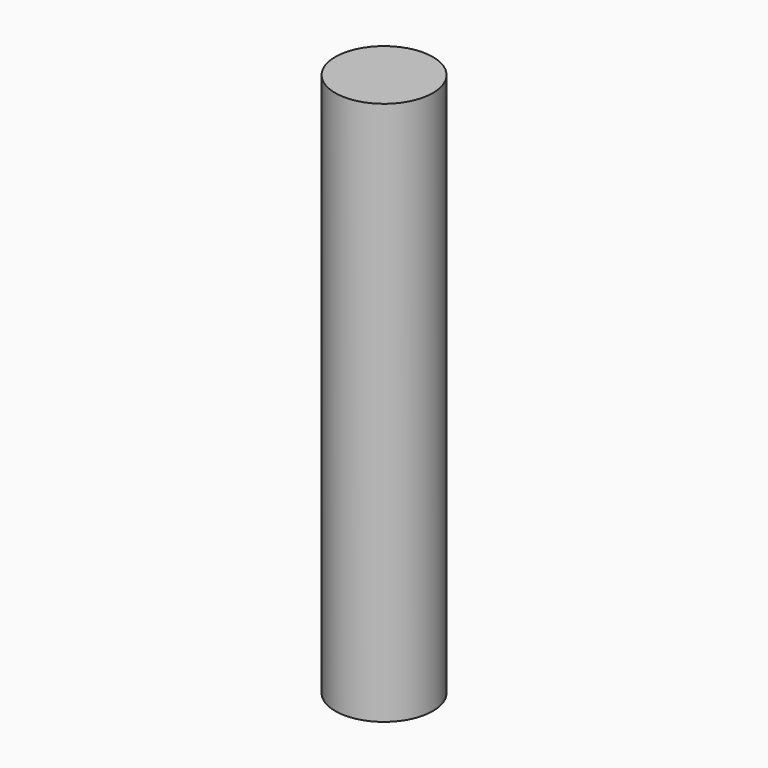
from build123d import *

# Parameters (mm, degrees)
CYLINDER_R     = 1.3462
CYLINDER_DEPTH = 15


with BuildPart() as part:
    # Cylinder → Cylinder (new body)
    with BuildSketch(Plane.XY.offset(-2.5)):
        Circle(CYLINDER_R)
    extrude(amount=CYLINDER_DEPTH)


solid = part.part
